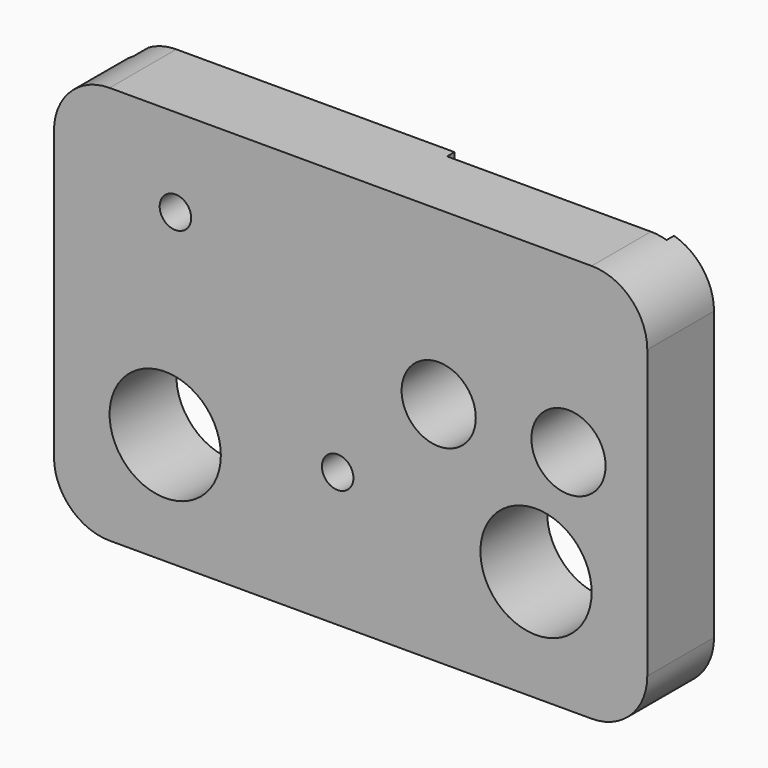
from build123d import *

# Parameters (mm, degrees)
SKETCH034_R     = 6
SKETCH034_R_2   = 4
SKETCH034_R_3   = 1.7
PAD010_DEPTH    = 9
SKETCH035_W     = 23.67814
SKETCH035_H     = 16.3581
POCKET022_DEPTH = 1
SKETCH036_W     = 37.866951
SKETCH036_H     = 5
POCKET023_DEPTH = 2


with BuildPart() as part:
    # Sketch034 → Pad010 (new body)
    with BuildSketch(Plane.XZ):
        with BuildLine():
            Line((38.838751, 1.547306), (-13.161249, 1.547306))
            ThreePointArc((-13.161249, 1.547306), (-17.40389, -0.210054), (-19.161249, -4.452694))
            Line((-19.161249, -4.452694), (-19.161249, -35.452694))
            ThreePointArc((-19.161249, -35.452694), (-17.40389, -39.695335), (-13.161249, -41.452694))
            Line((-13.161249, -41.452694), (38.838751, -41.452694))
            ThreePointArc((38.838751, -41.452694), (43.081392, -39.695335), (44.838751, -35.452694))
            Line((44.838751, -35.452694), (44.838751, -4.452694))
            ThreePointArc((44.838751, -4.452694), (43.081392, -0.210054), (38.838751, 1.547306))
        make_face()
        with Locations((32.838751, -29.452694)):
            Circle(SKETCH034_R, mode=Mode.SUBTRACT)
        with Locations((-7.161249, -29.452694)):
            Circle(SKETCH034_R, mode=Mode.SUBTRACT)
        with Locations((22.338751, -16.952694)):
            Circle(SKETCH034_R_2, mode=Mode.SUBTRACT)
        with Locations((36.338751, -16.952694)):
            Circle(SKETCH034_R_2, mode=Mode.SUBTRACT)
        with Locations((11.438751, -26.952694)):
            Circle(SKETCH034_R_3, mode=Mode.SUBTRACT)
        with Locations((-6.061249, -7.952694)):
            Circle(SKETCH034_R_3, mode=Mode.SUBTRACT)
    extrude(amount=PAD010_DEPTH)

    # Sketch035 (on Face15 of Pad010) → Pocket022 (cut)
    with BuildSketch(Plane(origin=(0, 0, 0), x_dir=(1, 0, 0), z_dir=(0, 1, 0))):
        with Locations((28.687662, -0.089719)):
            Rectangle(SKETCH035_W, SKETCH035_H)
    extrude(amount=-POCKET022_DEPTH, mode=Mode.SUBTRACT)

    # Sketch036 (on Face4 of Pocket022) → Pocket023 (cut)
    with BuildSketch(Plane(origin=(0, 0, 0), x_dir=(1, 0, 0), z_dir=(0, 1, 0))):
        with Locations((-1.591031, 1.759919)):
            Rectangle(SKETCH036_W, SKETCH036_H)
    extrude(amount=-POCKET023_DEPTH, mode=Mode.SUBTRACT)


with BuildPart() as part_1:
    # Body004 placement: moved
    add(part.part.moved(Location((-2.5, -18, 1.5))))


solid = part_1.part
